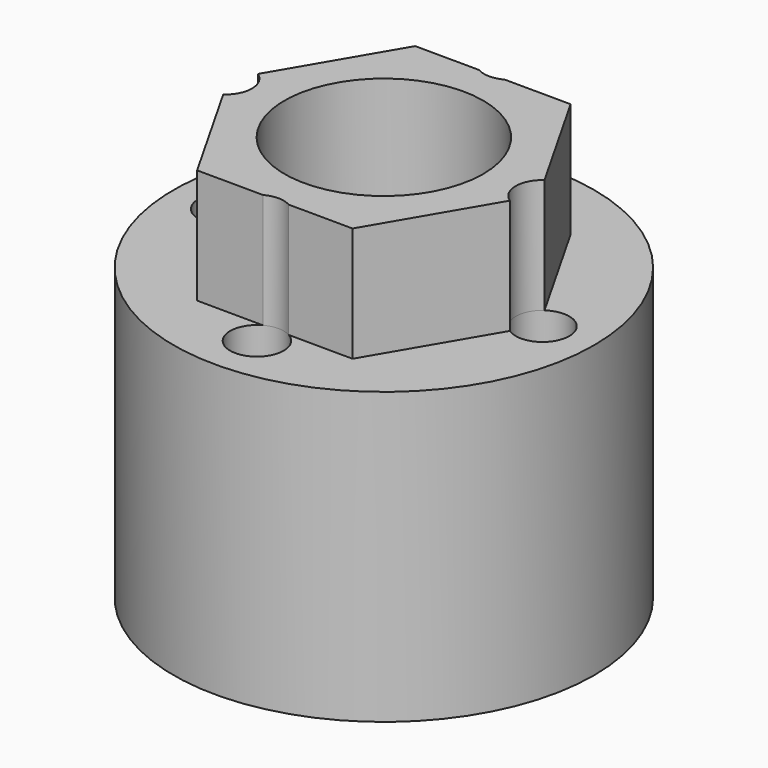
from build123d import *

# Parameters (mm, degrees)
F0_R          = 11
F1_DEPTH      = 15.2
F2_R          = 5.1
F3_DEPTH      = 50
F3_DEPTH_BACK = 50
F4_R          = 1.4
F5_DEPTH      = 25
F7_DEPTH      = 6
F8_R          = 5.2
F9_DEPTH      = 50
F10_DEPTH     = 25


with BuildPart() as f1:
    # F0 (on Top) → F1 (new body)
    with BuildSketch(Plane.XY):
        Circle(F0_R)
    extrude(amount=F1_DEPTH)

    # F2 (on face) → F3 (cut, two sides)
    with BuildSketch(Plane.XY.offset(15.2)) as f3_sk:
        Circle(F2_R)
    extrude(amount=-F3_DEPTH, mode=Mode.SUBTRACT)
    extrude(f3_sk.sketch, amount=-F3_DEPTH_BACK, mode=Mode.SUBTRACT)

    # F4 (on face) → F5 (cut)
    with BuildSketch(Plane.XY.offset(15.2)):
        with Locations((0, -8.3)):
            Circle(F4_R)
        with Locations((-8.3, 0)):
            Circle(F4_R)
        with Locations((0, 8.3)):
            Circle(F4_R)
        with Locations((8.3, 0)):
            Circle(F4_R)
    extrude(amount=-F5_DEPTH, mode=Mode.SUBTRACT)

    # F6 (on face) → F7 (join)
    with BuildSketch(Plane.XY.offset(15.2)):
        Polygon((4.039756, -7.100789), (8.169342, -0.051863), (4.129585, 7.048926), (-4.039756, 7.100789), (-8.169342, 0.051863), (-4.129585, -7.048926), align=None)
    extrude(amount=F7_DEPTH)

    # F8 (on face) → F9 (cut)
    with BuildSketch(Plane.XY.offset(21.2)):
        Circle(F8_R)
    extrude(amount=-F9_DEPTH, mode=Mode.SUBTRACT)

    # F4 (on face) → F10 (cut)
    with BuildSketch(Plane.XY.offset(15.2)):
        with Locations((-8.3, 0)):
            Circle(F4_R)
        with Locations((8.3, 0)):
            Circle(F4_R)
        with Locations((0, 8.3)):
            Circle(F4_R)
        with Locations((0, -8.3)):
            Circle(F4_R)
    extrude(amount=F10_DEPTH, mode=Mode.SUBTRACT)


solid = f1.part
